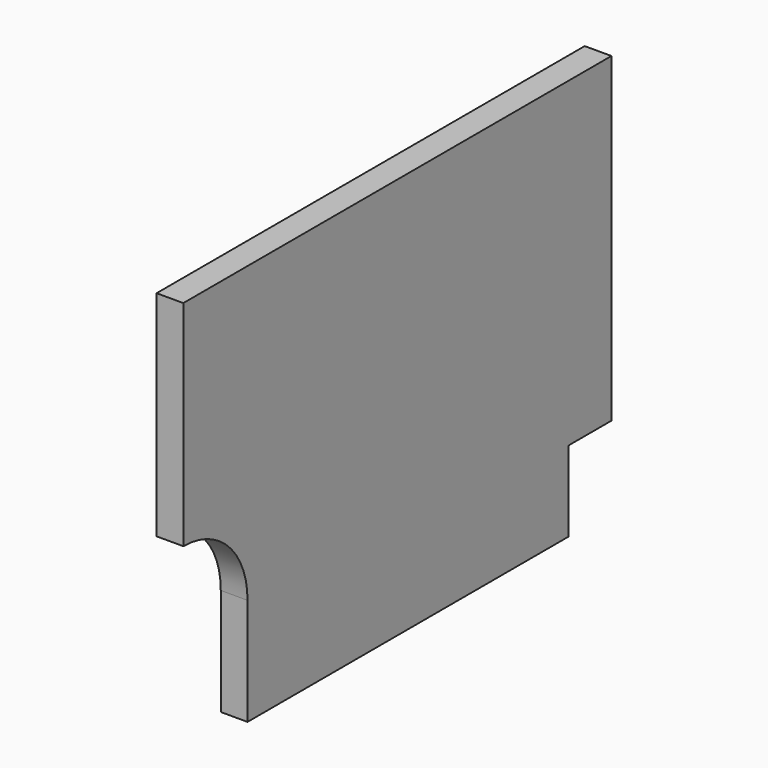
from build123d import *

# Parameters (mm, degrees)
F1_DEPTH = 25.4


with BuildPart() as f1:
    # F0 (on Right) → F1 (new body)
    with BuildSketch(Plane.YZ):
        with BuildLine():
            Line((50.8, 381), (-457.2, 381))
            Line((-457.2, 381), (-457.2, 177.8))
            ThreePointArc((-457.2, 177.8), (-403.318463, 155.481537), (-381, 101.6))
            Line((-381, 101.6), (-381, 0))
            Line((-381, 0), (0, 0))
            Line((0, 0), (0, 76.2))
            Line((0, 76.2), (50.8, 76.2))
            Line((50.8, 76.2), (50.8, 381))
        make_face()
    extrude(amount=F1_DEPTH)


solid = f1.part
